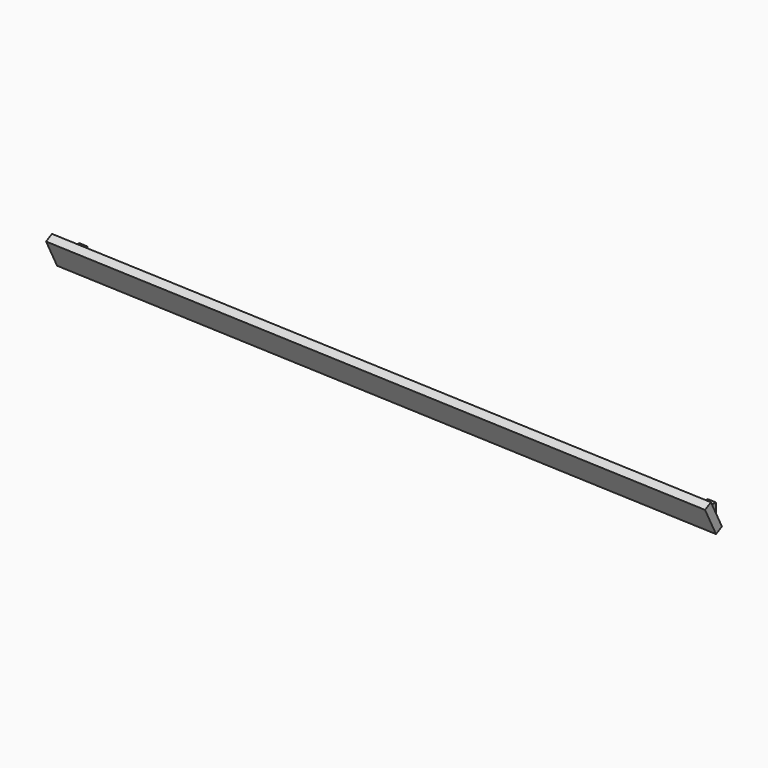
from build123d import *

# Parameters (mm, degrees)
F5_W     = 59.0129865401
F5_H     = 254
F5_W_2   = 276.4360010624
F5_H_2   = 464.4125699997
F6_DEPTH = 127


with BuildPart() as f2:
    # F2: sweep along a path in F0
    with BuildLine(Plane.XZ) as f2_path:
        Line((-129.8137740847, 1016), (2916.4924219501, 914.4))
    # F1 (on Right) → F2 (sweep)
    with BuildSketch(Plane.YZ):
        Polygon((-12.7, 891.5659210666), (-76.2, 1016), (-110.1365669818, 998.6818181818), (-46.6365669818, 874.2477392484), align=None)
    sweep(path=f2_path.line)


with BuildPart() as f4:
    # F4: sweep along a path in F0
    with BuildLine(Plane.XZ) as f4_path:
        Line((-129.8137740847, 1016), (2916.4924219501, 914.4))
    # F3 (on Right) → F4 (sweep)
    with BuildSketch(Plane.YZ):
        Polygon((0, 970.7512440242), (-53.1090909091, 970.7512440242), (-18.4727272727, 902.8781100606), (0, 902.8781100606), align=None)
    sweep(path=f4_path.line)

    # F5 (on face) → F6 (cut)
    with BuildSketch(Plane(origin=(5.9708109288, 350.8155029635, 179.0247866914), x_dir=(-0.9998851079, 0.0135017638, 0.00689009), z_dir=(0.0151581979, 0.8906212057, 0.4544932309))):
        with Locations((-2901.8983019364, 727.1129241549)):
            Rectangle(F5_W, F5_H)
        Polygon((-953.1969428062, 1159.2264175415), (-953.1969428062, 970.5620119603), (-1936.9811249375, 970.5620119603), (-2834.2918086663, 970.5620119603), (-2834.2918086663, 698.6254103649), (-1936.9811249375, 698.6254103649), (-1936.9811249375, 705.0999578878), (-953.1969428062, 705.0999578878), (-953.1969428062, 421.1422204971), (33.6796157062, 421.1422204971), (33.6796157062, 1159.2264175415), align=None)
        with Locations((209.9976162374, 857.911169529)):
            Rectangle(F5_W_2, F5_H_2)
    extrude(amount=F6_DEPTH, mode=Mode.SUBTRACT)


solid = Compound([f2.part, f4.part])
